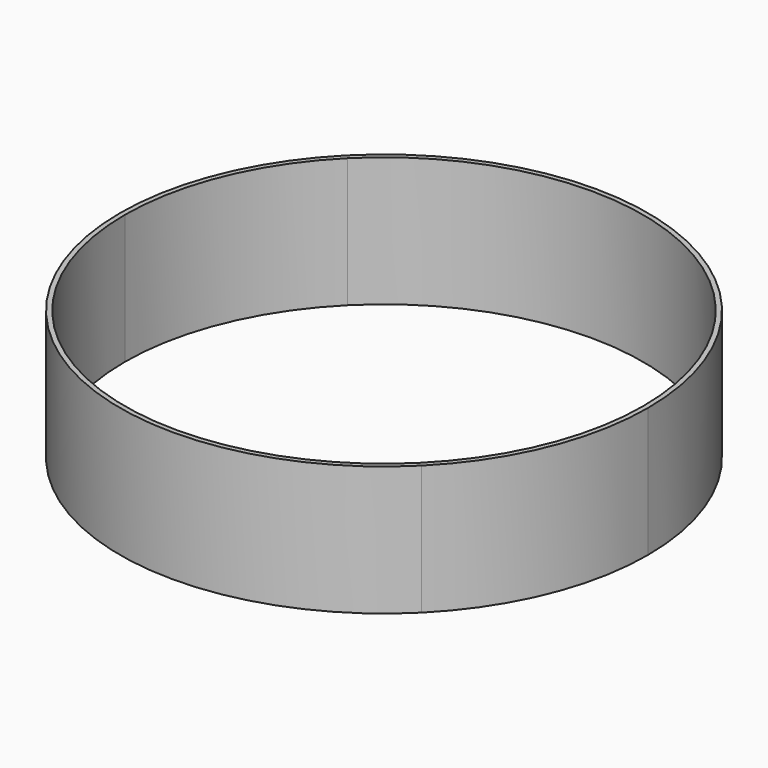
from build123d import *

# Parameters (mm, degrees)
F1_DEPTH = 16


with BuildPart() as f1:
    # F0 (on Top) → F1 (new body)
    with BuildSketch(Plane.XY):
        with BuildLine():
            ThreePointArc((-23.069359, 23.069359), (-30.14157, 12.485047), (-32.625, 0))
            ThreePointArc((-32.625, 0), (-12.485047, -30.14157), (23.069359, -23.069359))
            ThreePointArc((23.069359, -23.069359), (30.14157, -12.485047), (32.625, 0))
            ThreePointArc((32.625, 0), (12.485047, 30.14157), (-23.069359, 23.069359))
        make_face()
        with BuildLine():
            ThreePointArc((-22.645095, 22.645095), (12.255437, 29.587242), (32.025, 0))
            ThreePointArc((32.025, 0), (29.587242, -12.255437), (22.645095, -22.645095))
            ThreePointArc((22.645095, -22.645095), (-12.255437, -29.587242), (-32.025, 0))
            ThreePointArc((-32.025, 0), (-29.587242, 12.255437), (-22.645095, 22.645095))
        make_face(mode=Mode.SUBTRACT)
    extrude(amount=F1_DEPTH)


solid = f1.part
